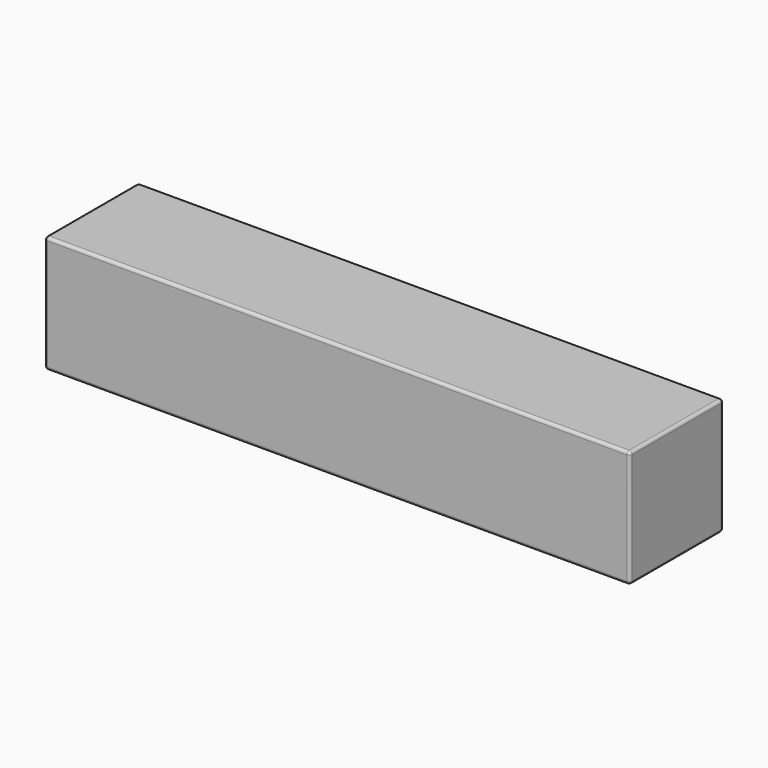
from build123d import *

# Parameters (mm, degrees)
F0_W          = 50
F0_H          = 10
F1_DEPTH      = 5
F1_DEPTH_BACK = 5
F2_R          = 0.25


with BuildPart() as f1:
    # F0 (on Front) → F1 (new body, two sides)
    with BuildSketch(Plane.XZ) as f1_sk:
        Rectangle(F0_W, F0_H)
    extrude(amount=F1_DEPTH)
    extrude(f1_sk.sketch, amount=-F1_DEPTH_BACK)

    # F2
    f2_edges = [f1.edges().sort_by_distance(p)[0] for p in [
        (0, -5, -5),
        (25, -5, 0),
        (0, -5, 5),
        (-25, -5, 0),
        (0, 5, -5),
        (25, 5, 0),
        (0, 5, 5),
        (-25, 5, 0),
        (25, 0, 5),
        (25, 0, -5),
        (-25, 0, 5),
        (-25, 0, -5),
    ]]
    fillet(f2_edges, radius=F2_R)


solid = f1.part
